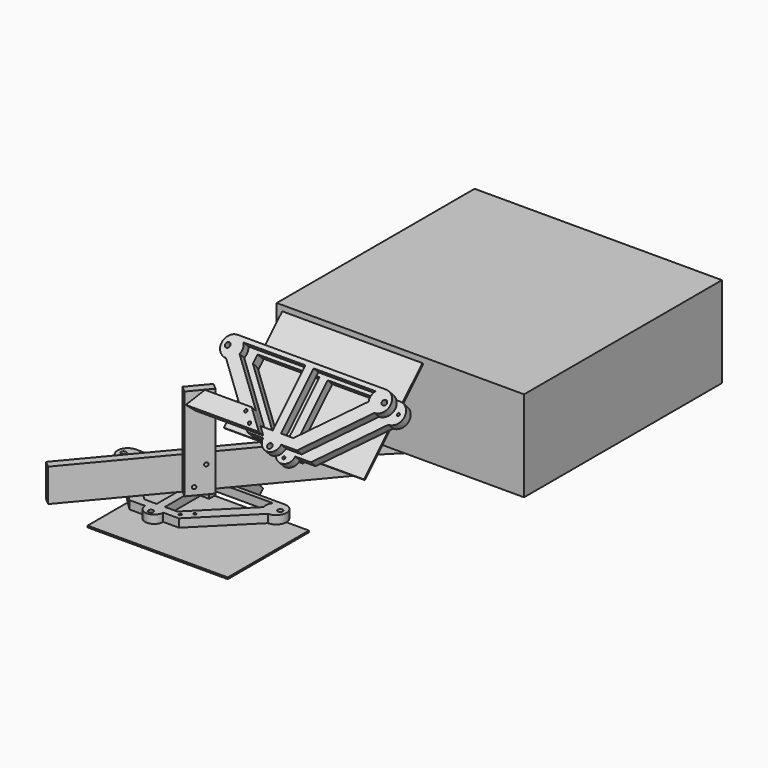
from build123d import *

# Parameters (mm, degrees)
BOX_W                       = 170
BOX_H                       = 125
BOX_DEPTH                   = 2
BOX_ROLL_ANGLE              = 135.114493
BOX_PLACEMENT_ANGLE         = 180
BOX009_W                    = 75
BOX009_H                    = 70
BOX009_DEPTH                = 25
CHAMFER003_SIZE             = 60
BOX008_W                    = 75
BOX008_H                    = 70
BOX008_DEPTH                = 25
CHAMFER002_SIZE             = 60
BOX002_W                    = 10
BOX002_H                    = 26
BOX002_DEPTH                = 3
BOX001_W                    = 10
BOX001_H                    = 20
BOX001_DEPTH                = 10
BOX006_W                    = 10
BOX006_H                    = 26
BOX006_DEPTH                = 3
BOX005_W                    = 10
BOX005_H                    = 20
BOX005_DEPTH                = 10
CUT002_PLACEMENT_ANGLE      = 90
BOX004_W                    = 10
BOX004_H                    = 26
BOX004_DEPTH                = 3
BOX003_W                    = 10
BOX003_H                    = 20
BOX003_DEPTH                = 10
BOX007_W                    = 181
BOX007_H                    = 85
BOX007_DEPTH                = 10
CHAMFER_SIZE                = 60
CHAMFER001_SIZE             = 60
BOX010_W                    = 300
BOX010_H                    = 300
BOX010_DEPTH                = 110
CYLINDER_R                  = 2
CYLINDER_DEPTH              = 50
BOX011_W                    = 10
BOX011_H                    = 300
BOX011_DEPTH                = 40
BOX011_PLACEMENT_ANGLE      = 40
BOX018_W                    = 10
BOX018_H                    = 26
BOX018_DEPTH                = 3
BOX013_W                    = 10
BOX013_H                    = 20
BOX013_DEPTH                = 10
BOX016_W                    = 26
BOX016_H                    = 10
BOX016_DEPTH                = 3
BOX014_W                    = 20
BOX014_H                    = 10
BOX014_DEPTH                = 10
BOX017_W                    = 10
BOX017_H                    = 26
BOX017_DEPTH                = 3
BOX015_W                    = 10
BOX015_H                    = 20
BOX015_DEPTH                = 10
CYLINDER001_R               = 1.6
CYLINDER001_DEPTH           = 17
CYLINDER006_R               = 1.6
CYLINDER006_DEPTH           = 17
CYLINDER005_R               = 1.6
CYLINDER005_DEPTH           = 17
BOX020_W                    = 75
BOX020_H                    = 70
BOX020_DEPTH                = 25
BOX019_W                    = 75
BOX019_H                    = 70
BOX019_DEPTH                = 25
CHAMFER005_SIZE             = 60
BOX012_W                    = 180
BOX012_H                    = 85
BOX012_DEPTH                = 10
CHAMFER004_SIZE             = 60
CYLINDER003_R               = 12.5
CYLINDER003_DEPTH           = 10
CYLINDER004_R               = 12.5
CYLINDER004_DEPTH           = 10
CYLINDER002_R               = 11
CYLINDER002_DEPTH           = 10
BOX030_W                    = 10
BOX030_H                    = 26
BOX030_DEPTH                = 3
BOX025_W                    = 10
BOX025_H                    = 20
BOX025_DEPTH                = 10
BOX028_W                    = 26
BOX028_H                    = 10
BOX028_DEPTH                = 3
BOX026_W                    = 20
BOX026_H                    = 10
BOX026_DEPTH                = 10
BOX029_W                    = 10
BOX029_H                    = 26
BOX029_DEPTH                = 3
BOX027_W                    = 10
BOX027_H                    = 20
BOX027_DEPTH                = 10
CYLINDER013_R               = 1.6
CYLINDER013_DEPTH           = 17
CYLINDER018_R               = 1.6
CYLINDER018_DEPTH           = 17
CYLINDER017_R               = 1.6
CYLINDER017_DEPTH           = 17
BOX032_W                    = 75
BOX032_H                    = 70
BOX032_DEPTH                = 25
BOX031_W                    = 75
BOX031_H                    = 70
BOX031_DEPTH                = 25
CHAMFER009_SIZE             = 60
BOX024_W                    = 180
BOX024_H                    = 85
BOX024_DEPTH                = 10
CHAMFER008_SIZE             = 60
CYLINDER015_R               = 12.5
CYLINDER015_DEPTH           = 10
CYLINDER016_R               = 12.5
CYLINDER016_DEPTH           = 10
CYLINDER014_R               = 11
CYLINDER014_DEPTH           = 10
FUSION018_ROLL_ANGLE        = 135.114493
FUSION018_PLACEMENT_ANGLE   = 180
CYLINDER022_R               = 1.6
CYLINDER022_DEPTH           = 50
CYLINDER022_ROLL_ANGLE      = 135.114491
CYLINDER022_PLACEMENT_ANGLE = 180
CYLINDER021_R               = 1.6
CYLINDER021_DEPTH           = 50
CYLINDER021_ROLL_ANGLE      = 135.114493
CYLINDER021_PLACEMENT_ANGLE = 180
CYLINDER011_R               = 3
CYLINDER011_DEPTH           = 17
CYLINDER012_R               = 3
CYLINDER012_DEPTH           = 17
CYLINDER010_R               = 3
CYLINDER010_DEPTH           = 17
CYLINDER008_R               = 12.5
CYLINDER008_DEPTH           = 10
CYLINDER009_R               = 12.5
CYLINDER009_DEPTH           = 10
CYLINDER007_R               = 11
CYLINDER007_DEPTH           = 10
BOX023_W                    = 75
BOX023_H                    = 70
BOX023_DEPTH                = 25
BOX022_W                    = 75
BOX022_H                    = 70
BOX022_DEPTH                = 25
CHAMFER007_SIZE             = 60
BOX021_W                    = 180
BOX021_H                    = 85
BOX021_DEPTH                = 10
CHAMFER006_SIZE             = 60
CUT011_ROLL_ANGLE           = 135.114493
CUT011_PLACEMENT_ANGLE      = 180
BOX037_W                    = 10
BOX037_H                    = 30
BOX037_DEPTH                = 135
BOX037_PLACEMENT_ANGLE      = 40
BOX036_W                    = 13
BOX036_H                    = 15
BOX036_DEPTH                = 13
CYLINDER023_R               = 2.2
CYLINDER023_DEPTH           = 52
CYLINDER023_PITCH_ANGLE     = 90
CYLINDER023_PLACEMENT_ANGLE = 139.000071
CYLINDER024_R               = 2.2
CYLINDER024_DEPTH           = 52
CYLINDER024_PITCH_ANGLE     = 90
CYLINDER024_PLACEMENT_ANGLE = 139.000071
BOX033_W                    = 10
BOX033_H                    = 30
BOX033_DEPTH                = 112
BOX033_PLACEMENT_ANGLE      = 40
CYLINDER020_R               = 1.8
CYLINDER020_DEPTH           = 50
CYLINDER020_ROLL_ANGLE      = 135.114491
CYLINDER020_PLACEMENT_ANGLE = 180
CYLINDER019_R               = 1.8
CYLINDER019_DEPTH           = 50
CYLINDER019_ROLL_ANGLE      = 135.114493
CYLINDER019_PLACEMENT_ANGLE = 180
BOX035_W                    = 10
BOX035_H                    = 30
BOX035_DEPTH                = 135
BOX035_PLACEMENT_ANGLE      = 40
BOX034_W                    = 90
BOX034_H                    = 20
BOX034_DEPTH                = 10
BOX034_ROLL_ANGLE           = 135.114493
BOX034_PLACEMENT_ANGLE      = 180
CHAMFER010_SIZE             = 19.99
CYLINDER031_R               = 1.6
CYLINDER031_DEPTH           = 50
CYLINDER031_ROLL_ANGLE      = 135.114491
CYLINDER031_PLACEMENT_ANGLE = 180
CYLINDER032_R               = 1.6
CYLINDER032_DEPTH           = 50
CYLINDER032_ROLL_ANGLE      = 135.114493
CYLINDER032_PLACEMENT_ANGLE = 180
CYLINDER029_R               = 3
CYLINDER029_DEPTH           = 17
CYLINDER030_R               = 3
CYLINDER030_DEPTH           = 17
CYLINDER028_R               = 3
CYLINDER028_DEPTH           = 17
CYLINDER026_R               = 12.5
CYLINDER026_DEPTH           = 10
CYLINDER027_R               = 12.5
CYLINDER027_DEPTH           = 10
CYLINDER025_R               = 11
CYLINDER025_DEPTH           = 10
BOX040_W                    = 75
BOX040_H                    = 70
BOX040_DEPTH                = 25
BOX039_W                    = 75
BOX039_H                    = 70
BOX039_DEPTH                = 25
CHAMFER012_SIZE             = 60
BOX038_W                    = 180
BOX038_H                    = 85
BOX038_DEPTH                = 10
CHAMFER011_SIZE             = 60
CUT023_ROLL_ANGLE           = 135.114493
CUT023_PLACEMENT_ANGLE      = 180
CUT024_ROLL_ANGLE           = 135.114493
CUT024_PLACEMENT_ANGLE      = 180
BOX041_W                    = 170
BOX041_H                    = 123
BOX041_DEPTH                = 2
BOX045_W                    = 22
BOX045_H                    = 14.1
BOX045_DEPTH                = 110
BOX045_PLACEMENT_ANGLE      = 45
BOX046_W                    = 22
BOX046_H                    = 44
BOX046_DEPTH                = 59
CYLINDER033_R               = 2.5
CYLINDER033_DEPTH           = 24
CYLINDER033_PLACEMENT_ANGLE = 315
CYLINDER034_R               = 2.5
CYLINDER034_DEPTH           = 24
CYLINDER034_PLACEMENT_ANGLE = 45
CYLINDER035_R               = 2.5
CYLINDER035_DEPTH           = 32
CYLINDER036_R               = 2.5
CYLINDER036_DEPTH           = 32
BOX042_W                    = 11
BOX042_H                    = 10
BOX042_DEPTH                = 11
BOX044_W                    = 22
BOX044_H                    = 14.1
BOX044_DEPTH                = 30
BOX044_PLACEMENT_ANGLE      = 45
BOX043_W                    = 22
BOX043_H                    = 10
BOX043_DEPTH                = 30
CYLINDER037_R               = 2.5
CYLINDER037_DEPTH           = 24
CYLINDER037_PLACEMENT_ANGLE = 45
CYLINDER038_R               = 2.5
CYLINDER038_DEPTH           = 24
CYLINDER038_PLACEMENT_ANGLE = 45
CYLINDER039_R               = 2.5
CYLINDER039_DEPTH           = 32
CYLINDER040_R               = 2.5
CYLINDER040_DEPTH           = 32
BOX047_W                    = 11
BOX047_H                    = 10
BOX047_DEPTH                = 11
BOX048_W                    = 22
BOX048_H                    = 14.1
BOX048_DEPTH                = 30
BOX048_PLACEMENT_ANGLE      = 45
BOX049_W                    = 22
BOX049_H                    = 10
BOX049_DEPTH                = 30
BOX050_W                    = 22
BOX050_H                    = 44
BOX050_DEPTH                = 59


with BuildPart() as mirror:
    # Box → Box (new body)
    with BuildSketch(Plane.XY):
        with Locations((85, 62.5)):
            Rectangle(BOX_W, BOX_H)
    extrude(amount=BOX_DEPTH)


with BuildPart() as mirror_1:
    # Box roll: moved
    add(mirror.part.rotate(Axis((0, 0, 0), (1, 0, 0)), BOX_ROLL_ANGLE))


with BuildPart() as mirror_2:
    # Box placement: moved
    add(mirror_1.part.moved(Location((185, -99, 22))).rotate(Axis((185, -99, 22), (0, 0, 1)), BOX_PLACEMENT_ANGLE))


with BuildPart() as chamfer003:
    # Box009 → Box009 (new body)
    with BuildSketch(Plane(origin=(4, 5, -19), x_dir=(1, 0, 0), z_dir=(0, 0, 1))):
        with Locations((37.5, 35)):
            Rectangle(BOX009_W, BOX009_H)
    extrude(amount=BOX009_DEPTH)

    # Chamfer003
    chamfer003_edges = [chamfer003.edges().sort_by_distance(p)[0] for p in [
        (4, 5, -6.5),
    ]]
    chamfer(chamfer003_edges, length=CHAMFER003_SIZE)


with BuildPart() as part_mirroring001:
    # Part__Mirroring001: instance of Chamfer003
    add(chamfer003.part.mirror(Plane(origin=(0, 0, 0), x_dir=(0, -1, 0), z_dir=(1, 0, 0))))


with BuildPart() as part_mirroring001_1:
    # Part__Mirroring001 placement: moved
    add(part_mirroring001.part.moved(Location((170, 0, 0))))


with BuildPart() as fusion:
    # Box008 → Box008 (new body)
    with BuildSketch(Plane(origin=(4, 5, -19), x_dir=(1, 0, 0), z_dir=(0, 0, 1))):
        with Locations((37.5, 35)):
            Rectangle(BOX008_W, BOX008_H)
    extrude(amount=BOX008_DEPTH)

    # Chamfer002
    chamfer002_edges = [fusion.edges().sort_by_distance(p)[0] for p in [
        (4, 5, -6.5),
    ]]
    chamfer(chamfer002_edges, length=CHAMFER002_SIZE)

    # Fusion: union Part__Mirroring001
    add(part_mirroring001_1.part)


with BuildPart() as cube002:
    # Box002 → Box002 (new body)
    with BuildSketch(Plane(origin=(0, -3, -1), x_dir=(1, 0, 0), z_dir=(0, 0, 1))):
        with Locations((5, 13)):
            Rectangle(BOX002_W, BOX002_H)
    extrude(amount=BOX002_DEPTH)


with BuildPart() as cut:
    # Box001 → Box001 (new body)
    with BuildSketch(Plane(origin=(-5, 0, -4), x_dir=(1, 0, 0), z_dir=(0, 0, 1))):
        with Locations((5, 10)):
            Rectangle(BOX001_W, BOX001_H)
    extrude(amount=BOX001_DEPTH)

    # Cut: cut Cube002
    add(cube002.part, mode=Mode.SUBTRACT)


with BuildPart() as cut_1:
    # Cut placement: moved
    add(cut.part.moved(Location((-1, 60, 0))))


with BuildPart() as cube006:
    # Box006 → Box006 (new body)
    with BuildSketch(Plane(origin=(0, -3, -1), x_dir=(1, 0, 0), z_dir=(0, 0, 1))):
        with Locations((5, 13)):
            Rectangle(BOX006_W, BOX006_H)
    extrude(amount=BOX006_DEPTH)


with BuildPart() as cut002:
    # Box005 → Box005 (new body)
    with BuildSketch(Plane(origin=(-5, 0, -4), x_dir=(1, 0, 0), z_dir=(0, 0, 1))):
        with Locations((5, 10)):
            Rectangle(BOX005_W, BOX005_H)
    extrude(amount=BOX005_DEPTH)

    # Cut002: cut Cube006
    add(cube006.part, mode=Mode.SUBTRACT)


with BuildPart() as cut002_1:
    # Cut002 placement: moved
    add(cut002.part.moved(Location((95, 0, 0))).rotate(Axis((95, 0, 0), (0, 0, 1)), CUT002_PLACEMENT_ANGLE))


with BuildPart() as cube004:
    # Box004 → Box004 (new body)
    with BuildSketch(Plane(origin=(0, -3, -1), x_dir=(1, 0, 0), z_dir=(0, 0, 1))):
        with Locations((5, 13)):
            Rectangle(BOX004_W, BOX004_H)
    extrude(amount=BOX004_DEPTH)


with BuildPart() as cut001:
    # Box003 → Box003 (new body)
    with BuildSketch(Plane(origin=(-5, 0, -4), x_dir=(1, 0, 0), z_dir=(0, 0, 1))):
        with Locations((5, 10)):
            Rectangle(BOX003_W, BOX003_H)
    extrude(amount=BOX003_DEPTH)

    # Cut001: cut Cube004
    add(cube004.part, mode=Mode.SUBTRACT)


with BuildPart() as cut001_1:
    # Cut001 placement: moved
    add(cut001.part.moved(Location((0, 60, 0))))


with BuildPart() as part_mirroring:
    # Part__Mirroring: instance of Cut001
    add(cut001_1.part.mirror(Plane(origin=(0, 0, 0), x_dir=(0, -1, 0), z_dir=(1, 0, 0))))


with BuildPart() as part_mirroring_1:
    # Part__Mirroring placement: moved
    add(part_mirroring.part.moved(Location((171, 0, 0))))


with BuildPart() as cut003:
    # Box007 → Box007 (new body)
    with BuildSketch(Plane(origin=(-6, -5, -13), x_dir=(1, 0, 0), z_dir=(0, 0, 1))):
        with Locations((90.5, 42.5)):
            Rectangle(BOX007_W, BOX007_H)
    extrude(amount=BOX007_DEPTH)

    # Chamfer
    chamfer_edges = [cut003.edges().sort_by_distance(p)[0] for p in [
        (-6, -5, -8),
    ]]
    chamfer(chamfer_edges, length=CHAMFER_SIZE)

    # Chamfer001
    chamfer001_edges = [cut003.edges().sort_by_distance(p)[0] for p in [
        (175, -5, -8),
    ]]
    chamfer(chamfer001_edges, length=CHAMFER001_SIZE)

    # Fusion001: union Cut, Cut002, Part__Mirroring
    add(cut_1.part)
    add(cut002_1.part)
    add(part_mirroring_1.part)

    # Cut003: cut Fusion
    add(fusion.part, mode=Mode.SUBTRACT)


with BuildPart() as projector:
    # Box010 → Box010 (new body)
    with BuildSketch(Plane.XY):
        with Locations((150, 150)):
            Rectangle(BOX010_W, BOX010_H)
    extrude(amount=BOX010_DEPTH)


with BuildPart() as lens_centre:
    # Cylinder → Cylinder (new body)
    with BuildSketch(Plane(origin=(100, 0, 65), x_dir=(1, 0, 0), z_dir=(0, -1, 0))):
        Circle(CYLINDER_R)
    extrude(amount=CYLINDER_DEPTH)


with BuildPart() as wooden_support:
    # Box011 → Box011 (new body)
    with BuildSketch(Plane.XY):
        with Locations((5, 150)):
            Rectangle(BOX011_W, BOX011_H)
    extrude(amount=BOX011_DEPTH)


with BuildPart() as wooden_support_1:
    # Box011 placement: moved
    add(wooden_support.part.moved(Location((-99, -226, -40))).rotate(Axis((-99, -226, -40), (0, 0, -1)), BOX011_PLACEMENT_ANGLE))


with BuildPart() as cube018:
    # Box018 → Box018 (new body)
    with BuildSketch(Plane(origin=(3.5, 62, 13), x_dir=(1, 0, 0), z_dir=(0, 0, 1))):
        with Locations((5, 13)):
            Rectangle(BOX018_W, BOX018_H)
    extrude(amount=BOX018_DEPTH)


with BuildPart() as cut005:
    # Box013 → Box013 (new body)
    with BuildSketch(Plane(origin=(0, 65, 9), x_dir=(1, 0, 0), z_dir=(0, 0, 1))):
        with Locations((5, 10)):
            Rectangle(BOX013_W, BOX013_H)
    extrude(amount=BOX013_DEPTH)

    # Cut005: cut Cube018
    add(cube018.part, mode=Mode.SUBTRACT)


with BuildPart() as cube016:
    # Box016 → Box016 (new body)
    with BuildSketch(Plane(origin=(76.5, 5, 13), x_dir=(1, 0, 0), z_dir=(0, 0, 1))):
        with Locations((13, 5)):
            Rectangle(BOX016_W, BOX016_H)
    extrude(amount=BOX016_DEPTH)


with BuildPart() as cut004:
    # Box014 → Box014 (new body)
    with BuildSketch(Plane(origin=(80, 0, 9), x_dir=(1, 0, 0), z_dir=(0, 0, 1))):
        with Locations((10, 5)):
            Rectangle(BOX014_W, BOX014_H)
    extrude(amount=BOX014_DEPTH)

    # Cut004: cut Cube016
    add(cube016.part, mode=Mode.SUBTRACT)


with BuildPart() as cube017:
    # Box017 → Box017 (new body)
    with BuildSketch(Plane(origin=(167.5, 62, 13), x_dir=(1, 0, 0), z_dir=(0, 0, 1))):
        with Locations((5, 13)):
            Rectangle(BOX017_W, BOX017_H)
    extrude(amount=BOX017_DEPTH)


with BuildPart() as square_clips:
    # Box015 → Box015 (new body)
    with BuildSketch(Plane(origin=(170, 65, 9), x_dir=(1, 0, 0), z_dir=(0, 0, 1))):
        with Locations((5, 10)):
            Rectangle(BOX015_W, BOX015_H)
    extrude(amount=BOX015_DEPTH)

    # Cut006: cut Cube017
    add(cube017.part, mode=Mode.SUBTRACT)

    # Fusion003: union Cut005, Cut004
    add(cut005.part)
    add(cut004.part)


with BuildPart() as cylinder:
    # Cylinder001 → Cylinder001 (new body)
    with BuildSketch(Plane(origin=(90, -5, -6), x_dir=(1, 0, 0), z_dir=(0, 0, 1))):
        Circle(CYLINDER001_R)
    extrude(amount=CYLINDER001_DEPTH)


with BuildPart() as cylinder006:
    # Cylinder006 → Cylinder006 (new body)
    with BuildSketch(Plane(origin=(-5, 72.5, -3), x_dir=(1, 0, 0), z_dir=(0, 0, 1))):
        Circle(CYLINDER006_R)
    extrude(amount=CYLINDER006_DEPTH)


with BuildPart() as m3_st_holes:
    # Cylinder005 → Cylinder005 (new body)
    with BuildSketch(Plane(origin=(185, 72.5, -2), x_dir=(1, 0, 0), z_dir=(0, 0, 1))):
        Circle(CYLINDER005_R)
    extrude(amount=CYLINDER005_DEPTH)

    # Fusion008: union Cylinder, Cylinder006
    add(cylinder.part)
    add(cylinder006.part)


with BuildPart() as cube020:
    # Box020 → Box020 (new body)
    with BuildSketch(Plane(origin=(95, 10, -6), x_dir=(1, 0, 0), z_dir=(0, 0, 1))):
        with Locations((37.5, 35)):
            Rectangle(BOX020_W, BOX020_H)
    extrude(amount=BOX020_DEPTH)


with BuildPart() as chamfer_square_holes:
    # Box019 → Box019 (new body)
    with BuildSketch(Plane(origin=(10, 10, -6), x_dir=(1, 0, 0), z_dir=(0, 0, 1))):
        with Locations((37.5, 35)):
            Rectangle(BOX019_W, BOX019_H)
    extrude(amount=BOX019_DEPTH)

    # Fusion002: union Cube020
    add(cube020.part)

    # Chamfer005
    chamfer005_edges = [chamfer_square_holes.edges().sort_by_distance(p)[0] for p in [
        (10, 10, 6.5),
        (170, 10, 6.5),
    ]]
    chamfer(chamfer005_edges, length=CHAMFER005_SIZE)


with BuildPart() as chamfer004:
    # Box012 → Box012 (new body)
    with BuildSketch(Plane.XY):
        with Locations((90, 42.5)):
            Rectangle(BOX012_W, BOX012_H)
    extrude(amount=BOX012_DEPTH)

    # Chamfer004
    chamfer004_edges = [chamfer004.edges().sort_by_distance(p)[0] for p in [
        (0, 0, 5),
        (180, 0, 5),
    ]]
    chamfer(chamfer004_edges, length=CHAMFER004_SIZE)


with BuildPart() as cylinder003:
    # Cylinder003 → Cylinder003 (new body)
    with BuildSketch(Plane(origin=(180, 72.5, 0), x_dir=(1, 0, 0), z_dir=(0, 0, 1))):
        Circle(CYLINDER003_R)
    extrude(amount=CYLINDER003_DEPTH)


with BuildPart() as cylinder004:
    # Cylinder004 → Cylinder004 (new body)
    with BuildSketch(Plane(origin=(0, 72.5, 0), x_dir=(1, 0, 0), z_dir=(0, 0, 1))):
        Circle(CYLINDER004_R)
    extrude(amount=CYLINDER004_DEPTH)


with BuildPart() as mount_laying_flat:
    # Cylinder002 → Cylinder002 (new body)
    with BuildSketch(Plane(origin=(90, 0, 0), x_dir=(1, 0, 0), z_dir=(0, 0, 1))):
        Circle(CYLINDER002_R)
    extrude(amount=CYLINDER002_DEPTH)

    # Fusion006: union Cylinder003, Cylinder004
    add(cylinder003.part)
    add(cylinder004.part)

    # Fusion007: union Chamfer004
    add(chamfer004.part)

    # Cut009: cut Chamfer Square Holes
    add(chamfer_square_holes.part, mode=Mode.SUBTRACT)

    # Cut010: cut M3 ST Holes
    add(m3_st_holes.part, mode=Mode.SUBTRACT)

    # Fusion009: union Square Clips
    add(square_clips.part)


with BuildPart() as cube030:
    # Box030 → Box030 (new body)
    with BuildSketch(Plane(origin=(3.5, 62, 13), x_dir=(1, 0, 0), z_dir=(0, 0, 1))):
        with Locations((5, 13)):
            Rectangle(BOX030_W, BOX030_H)
    extrude(amount=BOX030_DEPTH)


with BuildPart() as cut013:
    # Box025 → Box025 (new body)
    with BuildSketch(Plane(origin=(0, 65, 9), x_dir=(1, 0, 0), z_dir=(0, 0, 1))):
        with Locations((5, 10)):
            Rectangle(BOX025_W, BOX025_H)
    extrude(amount=BOX025_DEPTH)

    # Cut013: cut Cube030
    add(cube030.part, mode=Mode.SUBTRACT)


with BuildPart() as cube028:
    # Box028 → Box028 (new body)
    with BuildSketch(Plane(origin=(76.5, 5, 13), x_dir=(1, 0, 0), z_dir=(0, 0, 1))):
        with Locations((13, 5)):
            Rectangle(BOX028_W, BOX028_H)
    extrude(amount=BOX028_DEPTH)


with BuildPart() as cut012:
    # Box026 → Box026 (new body)
    with BuildSketch(Plane(origin=(80, 0, 9), x_dir=(1, 0, 0), z_dir=(0, 0, 1))):
        with Locations((10, 5)):
            Rectangle(BOX026_W, BOX026_H)
    extrude(amount=BOX026_DEPTH)

    # Cut012: cut Cube028
    add(cube028.part, mode=Mode.SUBTRACT)


with BuildPart() as cube029:
    # Box029 → Box029 (new body)
    with BuildSketch(Plane(origin=(167.5, 62, 13), x_dir=(1, 0, 0), z_dir=(0, 0, 1))):
        with Locations((5, 13)):
            Rectangle(BOX029_W, BOX029_H)
    extrude(amount=BOX029_DEPTH)


with BuildPart() as square_clips001:
    # Box027 → Box027 (new body)
    with BuildSketch(Plane(origin=(170, 65, 9), x_dir=(1, 0, 0), z_dir=(0, 0, 1))):
        with Locations((5, 10)):
            Rectangle(BOX027_W, BOX027_H)
    extrude(amount=BOX027_DEPTH)

    # Cut014: cut Cube029
    add(cube029.part, mode=Mode.SUBTRACT)

    # Fusion014: union Cut013, Cut012
    add(cut013.part)
    add(cut012.part)


with BuildPart() as cylinder013:
    # Cylinder013 → Cylinder013 (new body)
    with BuildSketch(Plane(origin=(90, -5, -6), x_dir=(1, 0, 0), z_dir=(0, 0, 1))):
        Circle(CYLINDER013_R)
    extrude(amount=CYLINDER013_DEPTH)


with BuildPart() as cylinder018:
    # Cylinder018 → Cylinder018 (new body)
    with BuildSketch(Plane(origin=(-5, 72.5, -3), x_dir=(1, 0, 0), z_dir=(0, 0, 1))):
        Circle(CYLINDER018_R)
    extrude(amount=CYLINDER018_DEPTH)


with BuildPart() as m3_st_holes001:
    # Cylinder017 → Cylinder017 (new body)
    with BuildSketch(Plane(origin=(185, 72.5, -2), x_dir=(1, 0, 0), z_dir=(0, 0, 1))):
        Circle(CYLINDER017_R)
    extrude(amount=CYLINDER017_DEPTH)

    # Fusion017: union Cylinder013, Cylinder018
    add(cylinder013.part)
    add(cylinder018.part)


with BuildPart() as cube032:
    # Box032 → Box032 (new body)
    with BuildSketch(Plane(origin=(95, 10, -6), x_dir=(1, 0, 0), z_dir=(0, 0, 1))):
        with Locations((37.5, 35)):
            Rectangle(BOX032_W, BOX032_H)
    extrude(amount=BOX032_DEPTH)


with BuildPart() as chamfer_square_holes001:
    # Box031 → Box031 (new body)
    with BuildSketch(Plane(origin=(10, 10, -6), x_dir=(1, 0, 0), z_dir=(0, 0, 1))):
        with Locations((37.5, 35)):
            Rectangle(BOX031_W, BOX031_H)
    extrude(amount=BOX031_DEPTH)

    # Fusion013: union Cube032
    add(cube032.part)

    # Chamfer009
    chamfer009_edges = [chamfer_square_holes001.edges().sort_by_distance(p)[0] for p in [
        (10, 10, 6.5),
        (170, 10, 6.5),
    ]]
    chamfer(chamfer009_edges, length=CHAMFER009_SIZE)


with BuildPart() as chamfer008:
    # Box024 → Box024 (new body)
    with BuildSketch(Plane.XY):
        with Locations((90, 42.5)):
            Rectangle(BOX024_W, BOX024_H)
    extrude(amount=BOX024_DEPTH)

    # Chamfer008
    chamfer008_edges = [chamfer008.edges().sort_by_distance(p)[0] for p in [
        (0, 0, 5),
        (180, 0, 5),
    ]]
    chamfer(chamfer008_edges, length=CHAMFER008_SIZE)


with BuildPart() as cylinder015:
    # Cylinder015 → Cylinder015 (new body)
    with BuildSketch(Plane(origin=(180, 72.5, 0), x_dir=(1, 0, 0), z_dir=(0, 0, 1))):
        Circle(CYLINDER015_R)
    extrude(amount=CYLINDER015_DEPTH)


with BuildPart() as cylinder016:
    # Cylinder016 → Cylinder016 (new body)
    with BuildSketch(Plane(origin=(0, 72.5, 0), x_dir=(1, 0, 0), z_dir=(0, 0, 1))):
        Circle(CYLINDER016_R)
    extrude(amount=CYLINDER016_DEPTH)


with BuildPart() as mount001:
    # Cylinder014 → Cylinder014 (new body)
    with BuildSketch(Plane(origin=(90, 0, 0), x_dir=(1, 0, 0), z_dir=(0, 0, 1))):
        Circle(CYLINDER014_R)
    extrude(amount=CYLINDER014_DEPTH)

    # Fusion015: union Cylinder015, Cylinder016
    add(cylinder015.part)
    add(cylinder016.part)

    # Fusion016: union Chamfer008
    add(chamfer008.part)

    # Cut015: cut Chamfer Square Holes001
    add(chamfer_square_holes001.part, mode=Mode.SUBTRACT)

    # Cut016: cut M3 ST Holes001
    add(m3_st_holes001.part, mode=Mode.SUBTRACT)

    # Fusion018: union Square Clips001
    add(square_clips001.part)


with BuildPart() as mount001_1:
    # Fusion018 roll: moved
    add(mount001.part.rotate(Axis((0, 0, 0), (1, 0, 0)), FUSION018_ROLL_ANGLE))


with BuildPart() as mount001_2:
    # Fusion018 placement: moved
    add(mount001_1.part.moved(Location((191, -112, 28))).rotate(Axis((191, -112, 28), (0, 0, 1)), FUSION018_PLACEMENT_ANGLE))


with BuildPart() as cylinder022:
    # Cylinder022 → Cylinder022 (new body)
    with BuildSketch(Plane.XY):
        Circle(CYLINDER022_R)
    extrude(amount=CYLINDER022_DEPTH)


with BuildPart() as cylinder022_1:
    # Cylinder022 roll: moved
    add(cylinder022.part.rotate(Axis((0, 0, 0), (1, 0, 0)), CYLINDER022_ROLL_ANGLE))


with BuildPart() as cylinder022_2:
    # Cylinder022 placement: moved
    add(cylinder022_1.part.moved(Location((65, -140, 80))).rotate(Axis((65, -140, 80), (0, 0, 1)), CYLINDER022_PLACEMENT_ANGLE))


with BuildPart() as m3_st_holes002:
    # Cylinder021 → Cylinder021 (new body)
    with BuildSketch(Plane.XY):
        Circle(CYLINDER021_R)
    extrude(amount=CYLINDER021_DEPTH)


with BuildPart() as m3_st_holes002_1:
    # Cylinder021 roll: moved
    add(m3_st_holes002.part.rotate(Axis((0, 0, 0), (1, 0, 0)), CYLINDER021_ROLL_ANGLE))


with BuildPart() as m3_st_holes002_2:
    # Cylinder021 placement: moved
    add(m3_st_holes002_1.part.moved(Location((75, -154, 80))).rotate(Axis((75, -154, 80), (0, 0, 1)), CYLINDER021_PLACEMENT_ANGLE))

    # Fusion020: union Cylinder022
    add(cylinder022_2.part)


with BuildPart() as cylinder011:
    # Cylinder011 → Cylinder011 (new body)
    with BuildSketch(Plane(origin=(90, -5, -33), x_dir=(1, 0, 0), z_dir=(0, 0, 1))):
        Circle(CYLINDER011_R)
    extrude(amount=CYLINDER011_DEPTH)


with BuildPart() as cylinder012:
    # Cylinder012 → Cylinder012 (new body)
    with BuildSketch(Plane(origin=(-5, 72.5, -33), x_dir=(1, 0, 0), z_dir=(0, 0, 1))):
        Circle(CYLINDER012_R)
    extrude(amount=CYLINDER012_DEPTH)


with BuildPart() as large_holes:
    # Cylinder010 → Cylinder010 (new body)
    with BuildSketch(Plane(origin=(185, 72.5, -33), x_dir=(1, 0, 0), z_dir=(0, 0, 1))):
        Circle(CYLINDER010_R)
    extrude(amount=CYLINDER010_DEPTH)

    # Fusion011: union Cylinder011, Cylinder012
    add(cylinder011.part)
    add(cylinder012.part)


with BuildPart() as cylinder008:
    # Cylinder008 → Cylinder008 (new body)
    with BuildSketch(Plane(origin=(180, 72.5, -30), x_dir=(1, 0, 0), z_dir=(0, 0, 1))):
        Circle(CYLINDER008_R)
    extrude(amount=CYLINDER008_DEPTH)


with BuildPart() as cylinder009:
    # Cylinder009 → Cylinder009 (new body)
    with BuildSketch(Plane(origin=(0, 72.5, -30), x_dir=(1, 0, 0), z_dir=(0, 0, 1))):
        Circle(CYLINDER009_R)
    extrude(amount=CYLINDER009_DEPTH)


with BuildPart() as bumps001:
    # Cylinder007 → Cylinder007 (new body)
    with BuildSketch(Plane(origin=(90, 0, -30), x_dir=(1, 0, 0), z_dir=(0, 0, 1))):
        Circle(CYLINDER007_R)
    extrude(amount=CYLINDER007_DEPTH)

    # Fusion010: union Cylinder008, Cylinder009
    add(cylinder008.part)
    add(cylinder009.part)


with BuildPart() as cube023:
    # Box023 → Box023 (new body)
    with BuildSketch(Plane(origin=(95, 10, -37), x_dir=(1, 0, 0), z_dir=(0, 0, 1))):
        with Locations((37.5, 35)):
            Rectangle(BOX023_W, BOX023_H)
    extrude(amount=BOX023_DEPTH)


with BuildPart() as chamfer007:
    # Box022 → Box022 (new body)
    with BuildSketch(Plane(origin=(10, 10, -37), x_dir=(1, 0, 0), z_dir=(0, 0, 1))):
        with Locations((37.5, 35)):
            Rectangle(BOX022_W, BOX022_H)
    extrude(amount=BOX022_DEPTH)

    # Fusion005: union Cube023
    add(cube023.part)

    # Chamfer007
    chamfer007_edges = [chamfer007.edges().sort_by_distance(p)[0] for p in [
        (10, 10, -24.5),
        (170, 10, -24.5),
    ]]
    chamfer(chamfer007_edges, length=CHAMFER007_SIZE)


with BuildPart() as mount_carrier:
    # Box021 → Box021 (new body)
    with BuildSketch(Plane.XY.offset(-30)):
        with Locations((90, 42.5)):
            Rectangle(BOX021_W, BOX021_H)
    extrude(amount=BOX021_DEPTH)

    # Chamfer006
    chamfer006_edges = [mount_carrier.edges().sort_by_distance(p)[0] for p in [
        (0, 0, -25),
        (180, 0, -25),
    ]]
    chamfer(chamfer006_edges, length=CHAMFER006_SIZE)

    # Cut008: cut Chamfer007
    add(chamfer007.part, mode=Mode.SUBTRACT)

    # Fusion012: union Bumps001
    add(bumps001.part)

    # Cut011: cut Large Holes
    add(large_holes.part, mode=Mode.SUBTRACT)


with BuildPart() as mount_carrier_1:
    # Cut011 roll: moved
    add(mount_carrier.part.rotate(Axis((0, 0, 0), (1, 0, 0)), CUT011_ROLL_ANGLE))


with BuildPart() as mount_carrier_2:
    # Cut011 placement: moved
    add(mount_carrier_1.part.moved(Location((191, -112, 28))).rotate(Axis((191, -112, 28), (0, 0, 1)), CUT011_PLACEMENT_ANGLE))

    # Cut019: cut M3 ST Holes002
    add(m3_st_holes002_2.part, mode=Mode.SUBTRACT)


with BuildPart() as wooden_support003:
    # Box037 → Box037 (new body)
    with BuildSketch(Plane.XY):
        with Locations((5, 15)):
            Rectangle(BOX037_W, BOX037_H)
    extrude(amount=BOX037_DEPTH)


with BuildPart() as wooden_support003_1:
    # Box037 placement: moved
    add(wooden_support003.part.moved(Location((-20, -133, -40))).rotate(Axis((-20, -133, -40), (0, 0, -1)), BOX037_PLACEMENT_ANGLE))


with BuildPart() as cut021:
    # Box036 → Box036 (new body)
    with BuildSketch(Plane(origin=(5, -131, 52), x_dir=(1, 0, 0), z_dir=(0, 0, 1))):
        with Locations((6.5, 7.5)):
            Rectangle(BOX036_W, BOX036_H)
    extrude(amount=BOX036_DEPTH)

    # Cut021: cut Wooden Support003
    add(wooden_support003_1.part, mode=Mode.SUBTRACT)


with BuildPart() as cylinder023:
    # Cylinder023 → Cylinder023 (new body)
    with BuildSketch(Plane.XY):
        Circle(CYLINDER023_R)
    extrude(amount=CYLINDER023_DEPTH)


with BuildPart() as cylinder023_1:
    # Cylinder023 pitch: moved
    add(cylinder023.part.rotate(Axis((0, 0, 0), (0, 1, 0)), CYLINDER023_PITCH_ANGLE))


with BuildPart() as cylinder023_2:
    # Cylinder023 placement: moved
    add(cylinder023_1.part.moved(Location((25.77, -134.121, -8))).rotate(Axis((25.77, -134.121, -8), (0, 0, 1)), CYLINDER023_PLACEMENT_ANGLE))


with BuildPart() as m4_holes:
    # Cylinder024 → Cylinder024 (new body)
    with BuildSketch(Plane.XY):
        Circle(CYLINDER024_R)
    extrude(amount=CYLINDER024_DEPTH)


with BuildPart() as m4_holes_1:
    # Cylinder024 pitch: moved
    add(m4_holes.part.rotate(Axis((0, 0, 0), (0, 1, 0)), CYLINDER024_PITCH_ANGLE))


with BuildPart() as m4_holes_2:
    # Cylinder024 placement: moved
    add(m4_holes_1.part.moved(Location((7.77, -134.121, -31))).rotate(Axis((7.77, -134.121, -31), (0, 0, 1)), CYLINDER024_PLACEMENT_ANGLE))

    # Fusion022: union Cylinder023
    add(cylinder023_2.part)


with BuildPart() as wooden_support001:
    # Box033 → Box033 (new body)
    with BuildSketch(Plane.XY):
        with Locations((5, 15)):
            Rectangle(BOX033_W, BOX033_H)
    extrude(amount=BOX033_DEPTH)


with BuildPart() as wooden_support001_1:
    # Box033 placement: moved
    add(wooden_support001.part.moved(Location((-8, -133, -40))).rotate(Axis((-8, -133, -40), (0, 0, -1)), BOX033_PLACEMENT_ANGLE))


with BuildPart() as cylinder020:
    # Cylinder020 → Cylinder020 (new body)
    with BuildSketch(Plane.XY):
        Circle(CYLINDER020_R)
    extrude(amount=CYLINDER020_DEPTH)


with BuildPart() as cylinder020_1:
    # Cylinder020 roll: moved
    add(cylinder020.part.rotate(Axis((0, 0, 0), (1, 0, 0)), CYLINDER020_ROLL_ANGLE))


with BuildPart() as cylinder020_2:
    # Cylinder020 placement: moved
    add(cylinder020_1.part.moved(Location((65, -140, 80))).rotate(Axis((65, -140, 80), (0, 0, 1)), CYLINDER020_PLACEMENT_ANGLE))


with BuildPart() as clearance_holes:
    # Cylinder019 → Cylinder019 (new body)
    with BuildSketch(Plane.XY):
        Circle(CYLINDER019_R)
    extrude(amount=CYLINDER019_DEPTH)


with BuildPart() as clearance_holes_1:
    # Cylinder019 roll: moved
    add(clearance_holes.part.rotate(Axis((0, 0, 0), (1, 0, 0)), CYLINDER019_ROLL_ANGLE))


with BuildPart() as clearance_holes_2:
    # Cylinder019 placement: moved
    add(clearance_holes_1.part.moved(Location((75, -154, 80))).rotate(Axis((75, -154, 80), (0, 0, 1)), CYLINDER019_PLACEMENT_ANGLE))

    # Fusion019: union Cylinder020
    add(cylinder020_2.part)


with BuildPart() as wooden_support002:
    # Box035 → Box035 (new body)
    with BuildSketch(Plane.XY):
        with Locations((5, 15)):
            Rectangle(BOX035_W, BOX035_H)
    extrude(amount=BOX035_DEPTH)


with BuildPart() as wooden_support002_1:
    # Box035 placement: moved
    add(wooden_support002.part.moved(Location((-20, -133, -40))).rotate(Axis((-20, -133, -40), (0, 0, -1)), BOX035_PLACEMENT_ANGLE))


with BuildPart() as bracket:
    # Box034 → Box034 (new body)
    with BuildSketch(Plane.XY):
        with Locations((45, 10)):
            Rectangle(BOX034_W, BOX034_H)
    extrude(amount=BOX034_DEPTH)


with BuildPart() as bracket_1:
    # Box034 roll: moved
    add(bracket.part.rotate(Axis((0, 0, 0), (1, 0, 0)), BOX034_ROLL_ANGLE))


with BuildPart() as bracket_2:
    # Box034 placement: moved
    add(bracket_1.part.moved(Location((89, -138.47, 57.61))).rotate(Axis((89, -138.47, 57.61), (0, 0, 1)), BOX034_PLACEMENT_ANGLE))

    # Cut017: cut Wooden Support002
    add(wooden_support002_1.part, mode=Mode.SUBTRACT)

    # Chamfer010
    chamfer010_edges = [bracket_2.edges().sort_by_distance(p)[0] for p in [
        (89, -120.771171, 68.181256),
    ]]
    chamfer(chamfer010_edges, length=CHAMFER010_SIZE)

    # Cut018: cut Clearance Holes
    add(clearance_holes_2.part, mode=Mode.SUBTRACT)

    # Fusion021: union Wooden Support001
    add(wooden_support001_1.part)

    # Cut020: cut M4 Holes
    add(m4_holes_2.part, mode=Mode.SUBTRACT)

    # Fusion023: union Cut021
    add(cut021.part)


with BuildPart() as cylinder031:
    # Cylinder031 → Cylinder031 (new body)
    with BuildSketch(Plane.XY):
        Circle(CYLINDER031_R)
    extrude(amount=CYLINDER031_DEPTH)


with BuildPart() as cylinder031_1:
    # Cylinder031 roll: moved
    add(cylinder031.part.rotate(Axis((0, 0, 0), (1, 0, 0)), CYLINDER031_ROLL_ANGLE))


with BuildPart() as cylinder031_2:
    # Cylinder031 placement: moved
    add(cylinder031_1.part.moved(Location((65, -140, 80))).rotate(Axis((65, -140, 80), (0, 0, 1)), CYLINDER031_PLACEMENT_ANGLE))


with BuildPart() as m3_st_holes003:
    # Cylinder032 → Cylinder032 (new body)
    with BuildSketch(Plane.XY):
        Circle(CYLINDER032_R)
    extrude(amount=CYLINDER032_DEPTH)


with BuildPart() as m3_st_holes003_1:
    # Cylinder032 roll: moved
    add(m3_st_holes003.part.rotate(Axis((0, 0, 0), (1, 0, 0)), CYLINDER032_ROLL_ANGLE))


with BuildPart() as m3_st_holes003_2:
    # Cylinder032 placement: moved
    add(m3_st_holes003_1.part.moved(Location((75, -154, 80))).rotate(Axis((75, -154, 80), (0, 0, 1)), CYLINDER032_PLACEMENT_ANGLE))

    # Fusion028: union Cylinder031
    add(cylinder031_2.part)


with BuildPart() as cylinder029:
    # Cylinder029 → Cylinder029 (new body)
    with BuildSketch(Plane(origin=(90, -5, -33), x_dir=(1, 0, 0), z_dir=(0, 0, 1))):
        Circle(CYLINDER029_R)
    extrude(amount=CYLINDER029_DEPTH)


with BuildPart() as cylinder030:
    # Cylinder030 → Cylinder030 (new body)
    with BuildSketch(Plane(origin=(-5, 72.5, -33), x_dir=(1, 0, 0), z_dir=(0, 0, 1))):
        Circle(CYLINDER030_R)
    extrude(amount=CYLINDER030_DEPTH)


with BuildPart() as large_holes001:
    # Cylinder028 → Cylinder028 (new body)
    with BuildSketch(Plane(origin=(185, 72.5, -33), x_dir=(1, 0, 0), z_dir=(0, 0, 1))):
        Circle(CYLINDER028_R)
    extrude(amount=CYLINDER028_DEPTH)

    # Fusion026: union Cylinder029, Cylinder030
    add(cylinder029.part)
    add(cylinder030.part)


with BuildPart() as cylinder026:
    # Cylinder026 → Cylinder026 (new body)
    with BuildSketch(Plane(origin=(180, 72.5, -30), x_dir=(1, 0, 0), z_dir=(0, 0, 1))):
        Circle(CYLINDER026_R)
    extrude(amount=CYLINDER026_DEPTH)


with BuildPart() as cylinder027:
    # Cylinder027 → Cylinder027 (new body)
    with BuildSketch(Plane(origin=(0, 72.5, -30), x_dir=(1, 0, 0), z_dir=(0, 0, 1))):
        Circle(CYLINDER027_R)
    extrude(amount=CYLINDER027_DEPTH)


with BuildPart() as bumps003:
    # Cylinder025 → Cylinder025 (new body)
    with BuildSketch(Plane(origin=(90, 0, -30), x_dir=(1, 0, 0), z_dir=(0, 0, 1))):
        Circle(CYLINDER025_R)
    extrude(amount=CYLINDER025_DEPTH)

    # Fusion025: union Cylinder026, Cylinder027
    add(cylinder026.part)
    add(cylinder027.part)


with BuildPart() as cube036:
    # Box040 → Box040 (new body)
    with BuildSketch(Plane(origin=(95, 10, -37), x_dir=(1, 0, 0), z_dir=(0, 0, 1))):
        with Locations((37.5, 35)):
            Rectangle(BOX040_W, BOX040_H)
    extrude(amount=BOX040_DEPTH)


with BuildPart() as chamfer012:
    # Box039 → Box039 (new body)
    with BuildSketch(Plane(origin=(10, 10, -37), x_dir=(1, 0, 0), z_dir=(0, 0, 1))):
        with Locations((37.5, 35)):
            Rectangle(BOX039_W, BOX039_H)
    extrude(amount=BOX039_DEPTH)

    # Fusion024: union Cube036
    add(cube036.part)

    # Chamfer012
    chamfer012_edges = [chamfer012.edges().sort_by_distance(p)[0] for p in [
        (10, 10, -24.5),
        (170, 10, -24.5),
    ]]
    chamfer(chamfer012_edges, length=CHAMFER012_SIZE)


with BuildPart() as mount_carrier001_laying_flat:
    # Box038 → Box038 (new body)
    with BuildSketch(Plane.XY.offset(-30)):
        with Locations((90, 42.5)):
            Rectangle(BOX038_W, BOX038_H)
    extrude(amount=BOX038_DEPTH)

    # Chamfer011
    chamfer011_edges = [mount_carrier001_laying_flat.edges().sort_by_distance(p)[0] for p in [
        (0, 0, -25),
        (180, 0, -25),
    ]]
    chamfer(chamfer011_edges, length=CHAMFER011_SIZE)

    # Cut022: cut Chamfer012
    add(chamfer012.part, mode=Mode.SUBTRACT)

    # Fusion027: union Bumps003
    add(bumps003.part)

    # Cut023: cut Large Holes001
    add(large_holes001.part, mode=Mode.SUBTRACT)


with BuildPart() as mount_carrier001_laying_flat_1:
    # Cut023 roll: moved
    add(mount_carrier001_laying_flat.part.rotate(Axis((0, 0, 0), (1, 0, 0)), CUT023_ROLL_ANGLE))


with BuildPart() as mount_carrier001_laying_flat_2:
    # Cut023 placement: moved
    add(mount_carrier001_laying_flat_1.part.moved(Location((191, -112, 28))).rotate(Axis((191, -112, 28), (0, 0, 1)), CUT023_PLACEMENT_ANGLE))

    # Cut024: cut M3 ST Holes003
    add(m3_st_holes003_2.part, mode=Mode.SUBTRACT)


with BuildPart() as mount_carrier001_laying_flat_3:
    # Cut024 roll: moved
    add(mount_carrier001_laying_flat_2.part.rotate(Axis((0, 0, 0), (1, 0, 0)), CUT024_ROLL_ANGLE))


with BuildPart() as mount_carrier001_laying_flat_4:
    # Cut024 placement: moved
    add(mount_carrier001_laying_flat_3.part.rotate(Axis((0, 0, 0), (0, 0, 1)), CUT024_PLACEMENT_ANGLE))


with BuildPart() as mirror_flat:
    # Box041 → Box041 (new body)
    with BuildSketch(Plane(origin=(-187, -53, -169), x_dir=(1, 0, 0), z_dir=(0, 0, 1))):
        with Locations((85, 61.5)):
            Rectangle(BOX041_W, BOX041_H)
    extrude(amount=BOX041_DEPTH)


with BuildPart() as f_45_degree_piece:
    # Box045 → Box045 (new body)
    with BuildSketch(Plane.XY):
        with Locations((11, 7.05)):
            Rectangle(BOX045_W, BOX045_H)
    extrude(amount=BOX045_DEPTH)


with BuildPart() as f_45_degree_piece_1:
    # Box045 placement: moved
    add(f_45_degree_piece.part.moved(Location((-112, 82, -164.5))).rotate(Axis((-112, 82, -164.5), (1, 0, 0)), BOX045_PLACEMENT_ANGLE))


with BuildPart() as cube041:
    # Box046 → Box046 (new body)
    with BuildSketch(Plane(origin=(-123, -16, -135.5), x_dir=(1, 0, 0), z_dir=(0, 0, 1))):
        with Locations((11, 22)):
            Rectangle(BOX046_W, BOX046_H)
    extrude(amount=BOX046_DEPTH)


with BuildPart() as cylinder033:
    # Cylinder033 → Cylinder033 (new body)
    with BuildSketch(Plane.XY):
        Circle(CYLINDER033_R)
    extrude(amount=CYLINDER033_DEPTH)


with BuildPart() as cylinder033_1:
    # Cylinder033 placement: moved
    add(cylinder033.part.moved(Location((-95, -8.48528, -98.4853))).rotate(Axis((-95, -8.48528, -98.4853), (1, 0, 0)), CYLINDER033_PLACEMENT_ANGLE))


with BuildPart() as cylinder034:
    # Cylinder034 → Cylinder034 (new body)
    with BuildSketch(Plane.XY):
        Circle(CYLINDER034_R)
    extrude(amount=CYLINDER034_DEPTH)


with BuildPart() as cylinder034_1:
    # Cylinder034 placement: moved
    add(cylinder034.part.moved(Location((-107, -2.49, -106.49))).rotate(Axis((-107, -2.49, -106.49), (-1, 0, 0)), CYLINDER034_PLACEMENT_ANGLE))


with BuildPart() as cylinder035:
    # Cylinder035 → Cylinder035 (new body)
    with BuildSketch(Plane(origin=(-118, 15, -107), x_dir=(0, 0, -1), z_dir=(1, 0, 0))):
        Circle(CYLINDER035_R)
    extrude(amount=CYLINDER035_DEPTH)


with BuildPart() as fusion030:
    # Cylinder036 → Cylinder036 (new body)
    with BuildSketch(Plane(origin=(-118, 15, -115), x_dir=(0, 0, -1), z_dir=(1, 0, 0))):
        Circle(CYLINDER036_R)
    extrude(amount=CYLINDER036_DEPTH)

    # Fusion030: union Cylinder033, Cylinder034, Cylinder035
    add(cylinder033_1.part)
    add(cylinder034_1.part)
    add(cylinder035.part)


with BuildPart() as cube038:
    # Box042 → Box042 (new body)
    with BuildSketch(Plane(origin=(-106.5, 10, -129.5), x_dir=(1, 0, 0), z_dir=(0, 0, 1))):
        with Locations((5.5, 5)):
            Rectangle(BOX042_W, BOX042_H)
    extrude(amount=BOX042_DEPTH)


with BuildPart() as cube040:
    # Box044 → Box044 (new body)
    with BuildSketch(Plane.XY):
        with Locations((11, 7.05)):
            Rectangle(BOX044_W, BOX044_H)
    extrude(amount=BOX044_DEPTH)


with BuildPart() as cube040_1:
    # Box044 placement: moved
    add(cube040.part.moved(Location((-112, 10, -112.5))).rotate(Axis((-112, 10, -112.5), (1, 0, 0)), BOX044_PLACEMENT_ANGLE))


with BuildPart() as cut029:
    # Box043 → Box043 (new body)
    with BuildSketch(Plane(origin=(-112, 10, -132.5), x_dir=(1, 0, 0), z_dir=(0, 0, 1))):
        with Locations((11, 5)):
            Rectangle(BOX043_W, BOX043_H)
    extrude(amount=BOX043_DEPTH)

    # Fusion029: union Cube040
    add(cube040_1.part)

    # Cut025: cut Cube038
    add(cube038.part, mode=Mode.SUBTRACT)

    # Cut026: cut Fusion030
    add(fusion030.part, mode=Mode.SUBTRACT)

    # Cut029: cut Cube041
    add(cube041.part, mode=Mode.SUBTRACT)


with BuildPart() as cylinder037:
    # Cylinder037 → Cylinder037 (new body)
    with BuildSketch(Plane.XY):
        Circle(CYLINDER037_R)
    extrude(amount=CYLINDER037_DEPTH)


with BuildPart() as cylinder037_1:
    # Cylinder037 placement: moved
    add(cylinder037.part.moved(Location((-95, -8.48528, -98.4853))).rotate(Axis((-95, -8.48528, -98.4853), (-1, 0, 0)), CYLINDER037_PLACEMENT_ANGLE))


with BuildPart() as cylinder038:
    # Cylinder038 → Cylinder038 (new body)
    with BuildSketch(Plane.XY):
        Circle(CYLINDER038_R)
    extrude(amount=CYLINDER038_DEPTH)


with BuildPart() as cylinder038_1:
    # Cylinder038 placement: moved
    add(cylinder038.part.moved(Location((-107, -2.49, -106.49))).rotate(Axis((-107, -2.49, -106.49), (-1, 0, 0)), CYLINDER038_PLACEMENT_ANGLE))


with BuildPart() as cylinder039:
    # Cylinder039 → Cylinder039 (new body)
    with BuildSketch(Plane(origin=(-118, 15, -107), x_dir=(0, 0, -1), z_dir=(1, 0, 0))):
        Circle(CYLINDER039_R)
    extrude(amount=CYLINDER039_DEPTH)


with BuildPart() as fusion031:
    # Cylinder040 → Cylinder040 (new body)
    with BuildSketch(Plane(origin=(-118, 15, -115), x_dir=(0, 0, -1), z_dir=(1, 0, 0))):
        Circle(CYLINDER040_R)
    extrude(amount=CYLINDER040_DEPTH)

    # Fusion031: union Cylinder037, Cylinder038, Cylinder039
    add(cylinder037_1.part)
    add(cylinder038_1.part)
    add(cylinder039.part)


with BuildPart() as cube042:
    # Box047 → Box047 (new body)
    with BuildSketch(Plane(origin=(-106.5, 10, -129.5), x_dir=(1, 0, 0), z_dir=(0, 0, 1))):
        with Locations((5.5, 5)):
            Rectangle(BOX047_W, BOX047_H)
    extrude(amount=BOX047_DEPTH)


with BuildPart() as cube043:
    # Box048 → Box048 (new body)
    with BuildSketch(Plane.XY):
        with Locations((11, 7.05)):
            Rectangle(BOX048_W, BOX048_H)
    extrude(amount=BOX048_DEPTH)


with BuildPart() as cube043_1:
    # Box048 placement: moved
    add(cube043.part.moved(Location((-112, 10, -112.5))).rotate(Axis((-112, 10, -112.5), (1, 0, 0)), BOX048_PLACEMENT_ANGLE))


with BuildPart() as cut027:
    # Box049 → Box049 (new body)
    with BuildSketch(Plane(origin=(-112, 10, -132.5), x_dir=(1, 0, 0), z_dir=(0, 0, 1))):
        with Locations((11, 5)):
            Rectangle(BOX049_W, BOX049_H)
    extrude(amount=BOX049_DEPTH)

    # Fusion032: union Cube043
    add(cube043_1.part)

    # Cut028: cut Cube042
    add(cube042.part, mode=Mode.SUBTRACT)

    # Cut027: cut Fusion031
    add(fusion031.part, mode=Mode.SUBTRACT)


with BuildPart() as common:
    # Box050 → Box050 (new body)
    with BuildSketch(Plane(origin=(-123, -16, -135.5), x_dir=(1, 0, 0), z_dir=(0, 0, 1))):
        with Locations((11, 22)):
            Rectangle(BOX050_W, BOX050_H)
    extrude(amount=BOX050_DEPTH)

    # Common: intersect Cut027
    add(cut027.part, mode=Mode.INTERSECT)


solid = Compound([mirror_2.part, cut003.part, projector.part, lens_centre.part, wooden_support_1.part, mount_laying_flat.part, mount001_2.part, mount_carrier_2.part, bracket_2.part, mount_carrier001_laying_flat_4.part, mirror_flat.part, f_45_degree_piece_1.part, cut029.part, common.part])
